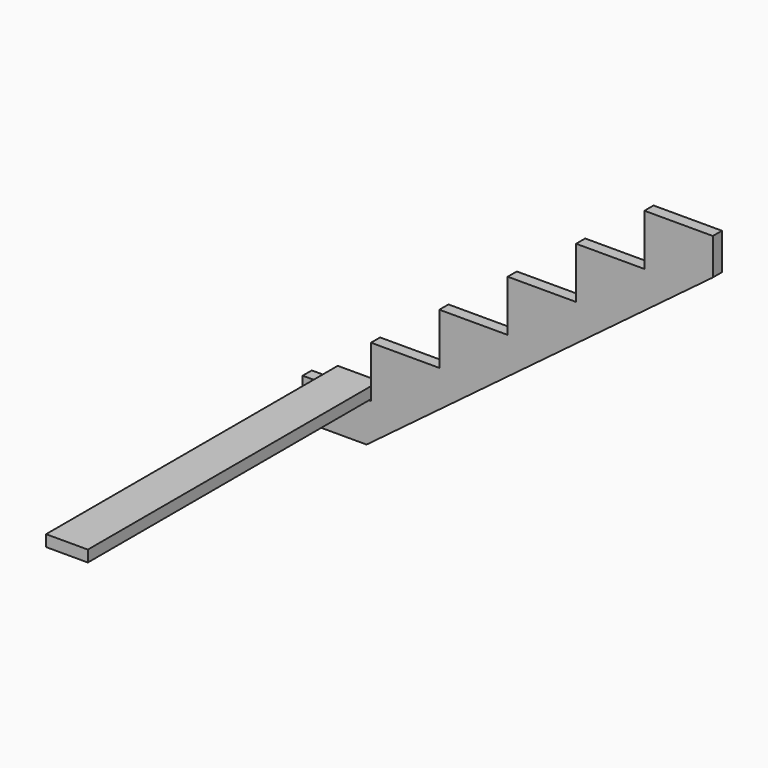
from build123d import *

# Parameters (mm, degrees)
F1_DEPTH = 38.1
F2_W     = 139.7
F2_H     = 38.1
F3_DEPTH = 1219.2


with BuildPart() as f1:
    # F0 (on Front) → F1 (new body)
    with BuildSketch(Plane.XZ):
        Polygon((520.191991, -124.155694), (520.191991, -1.918194), (291.591991, -1.918194), (291.591991, -173.368194), (62.991991, -173.368194), (62.991991, -344.818194), (-165.608009, -344.818194), (-165.608009, -516.268194), (-394.208009, -516.268194), (-394.208009, -687.718194), (-622.808009, -687.718194), (-622.808009, -859.168194), (-851.408009, -859.168194), (-851.408009, -992.518194), (-637.624676, -992.518194), align=None)
    extrude(amount=F1_DEPTH)


with BuildPart() as f3:
    # F2 (on Front) → F3 (new body)
    with BuildSketch(Plane.XZ):
        with Locations((-694.627047, -836.414383)):
            Rectangle(F2_W, F2_H)
    extrude(amount=F3_DEPTH)


solid = Compound([f1.part, f3.part])
